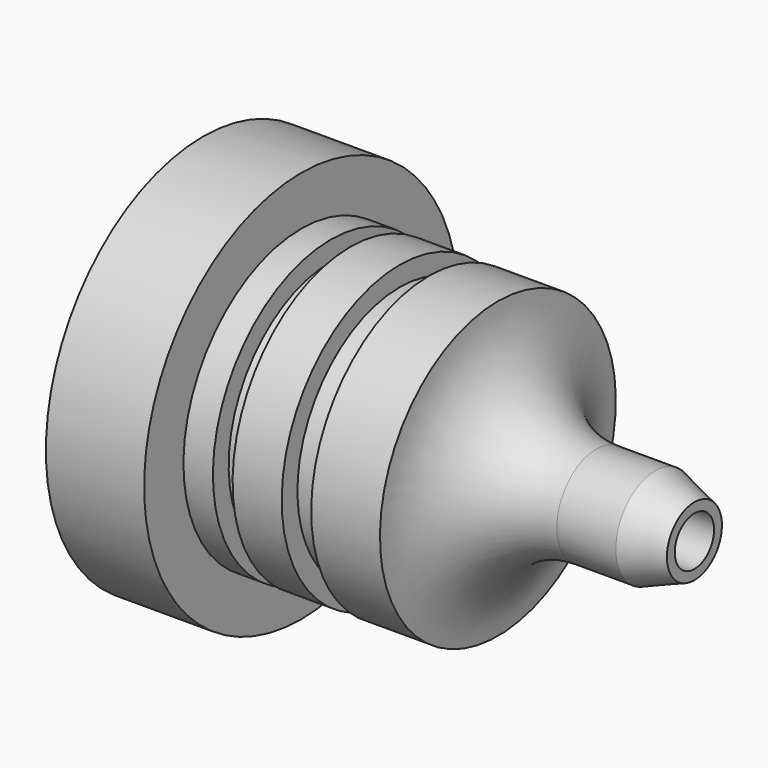
from build123d import *


with BuildPart() as f1:
    # F0 (on Front) → F1 (revolve)
    with BuildSketch(Plane.XZ):
        with BuildLine():
            Line((-10, 2.5), (0, 2.5))
            Line((0, 2.5), (0, 3.5))
            Line((0, 3.5), (-4, 5))
            Line((-4, 5), (-10, 5))
            ThreePointArc((-10, 5), (-17.0710678119, 7.9289321881), (-20, 15))
            Line((-20, 15), (-27, 15))
            Line((-27, 15), (-27, 13))
            Line((-27, 13), (-30, 13))
            Line((-30, 13), (-30, 15))
            Line((-30, 15), (-35, 15))
            Line((-35, 15), (-35, 13))
            Line((-35, 13), (-37, 13))
            Line((-37, 13), (-37, 15))
            Line((-37, 15), (-40, 15))
            Line((-40, 15), (-40, 20))
            Line((-40, 20), (-50, 20))
            Line((-50, 20), (-50, 0))
            Line((-50, 0), (-40, 0))
            Line((-40, 0), (-37, 0))
            Line((-37, 0), (-35, 0))
            Line((-35, 0), (-30, 0))
            Line((-30, 0), (-27, 0))
            Line((-27, 0), (-20, 0))
            Line((-20, 0), (-12, 0))
            Line((-12, 0), (-12, 2))
            Line((-12, 2), (-10, 2.5))
        make_face()
    revolve(axis=Axis((-25, 0, 0), (1, 0, 0)))


solid = f1.part
